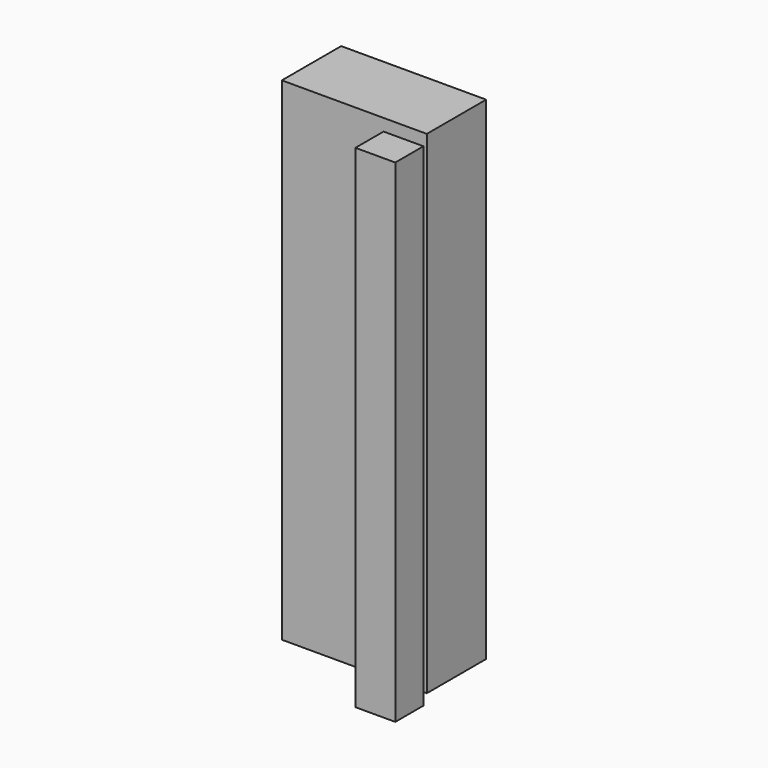
from build123d import *

# Parameters (mm, degrees)
F0_W     = 74.763448
F0_H     = 38.256146
F0_W_2   = 20.549016
F0_H_2   = 18.144346
F1_DEPTH = 254


with BuildPart() as f1:
    # F0 (on Top) → F1 (new body)
    with BuildSketch(Plane.XY):
        with Locations((0, 19.128073)):
            Rectangle(F0_W, F0_H)
        with Locations((32.790984, -18.362951)):
            Rectangle(F0_W_2, F0_H_2)
    extrude(amount=F1_DEPTH)


solid = f1.part
